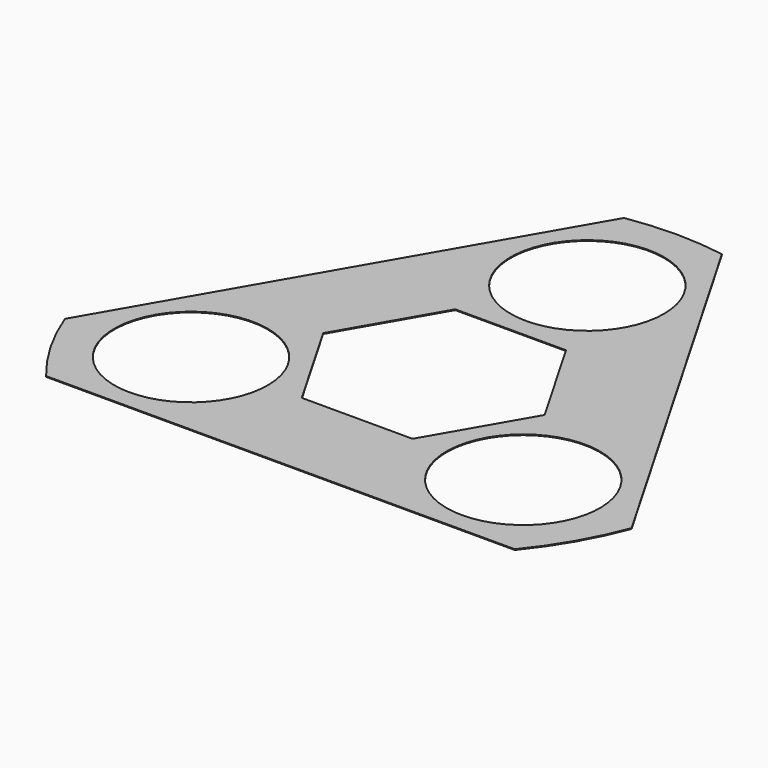
from build123d import *

# Parameters (mm, degrees)
F1_DEPTH = 1


with BuildPart() as f1:
    # F0 (on Top) → F1 (new body)
    with BuildSketch(Plane.XY):
        with BuildLine():
            ThreePointArc((-97.9795897113, 230), (-165.7757573284, 187.132034356), (-216.5063509461, 125))
            Line((-216.5063509461, 125), (-72.1687836487, 125))
            Line((-72.1687836487, 125), (-50, 163.3974596216))
            ThreePointArc((-50, 163.3974596216), (-81.1385502643, 191.5488609093), (-97.9795897113, 230))
        make_face()
        with BuildLine():
            Line((-50, 163.3974596216), (-72.1687836487, 125))
            Line((-72.1687836487, 125), (72.1687836487, 125))
            Line((72.1687836487, 125), (50, 163.3974596216))
            ThreePointArc((50, 163.3974596216), (0, 150), (-50, 163.3974596216))
        make_face()
        with BuildLine():
            Line((50, 163.3974596216), (72.1687836487, 125))
            Line((72.1687836487, 125), (216.5063509461, 125))
            ThreePointArc((216.5063509461, 125), (165.7757573284, 187.132034356), (97.9795897113, 230))
            ThreePointArc((97.9795897113, 230), (81.1385502643, 191.5488609093), (50, 163.3974596216))
        make_face()
        Polygon((216.5063509461, 125), (72.1687836487, 125), (144.3375672974, 0), align=None)
        with BuildLine():
            ThreePointArc((250, 0), (241.4814565723, 64.7047612756), (216.5063509461, 125))
            Line((216.5063509461, 125), (144.3375672974, 0))
            Line((144.3375672974, 0), (166.5063509461, -38.3974596216))
            ThreePointArc((166.5063509461, -38.3974596216), (206.4554547456, -25.5063846995), (248.1756377261, -30.1471862576))
            ThreePointArc((248.1756377261, -30.1471862576), (249.5434926336, -15.1011683071), (250, 0))
        make_face()
        with BuildLine():
            Line((144.3375672974, 0), (72.1687836487, -125))
            Line((72.1687836487, -125), (116.5063509461, -125))
            ThreePointArc((116.5063509461, -125), (129.9038105677, -75), (166.5063509461, -38.3974596216))
            Line((166.5063509461, -38.3974596216), (144.3375672974, 0))
        make_face()
        with BuildLine():
            Line((72.1687836487, -125), (0, -250))
            ThreePointArc((0, -250), (79.1732169499, -237.132034356), (150.1960480148, -199.8528137424))
            ThreePointArc((150.1960480148, -199.8528137424), (125.3169044812, -166.0424762098), (116.5063509461, -125))
            Line((116.5063509461, -125), (72.1687836487, -125))
        make_face()
        Polygon((-72.1687836487, -125), (0, -250), (72.1687836487, -125), align=None)
        with BuildLine():
            ThreePointArc((-150.1960480148, -199.8528137424), (-79.1732169499, -237.132034356), (0, -250))
            Line((0, -250), (-72.1687836487, -125))
            Line((-72.1687836487, -125), (-116.5063509461, -125))
            ThreePointArc((-116.5063509461, -125), (-125.3169044812, -166.0424762098), (-150.1960480148, -199.8528137424))
        make_face()
        with BuildLine():
            Line((-72.1687836487, -125), (-144.3375672974, 0))
            Line((-144.3375672974, 0), (-166.5063509461, -38.3974596216))
            ThreePointArc((-166.5063509461, -38.3974596216), (-129.9038105677, -75), (-116.5063509461, -125))
            Line((-116.5063509461, -125), (-72.1687836487, -125))
        make_face()
        with BuildLine():
            Line((-144.3375672974, 0), (-216.5063509461, 125))
            ThreePointArc((-216.5063509461, 125), (-244.9489742783, 50), (-248.1756377261, -30.1471862576))
            ThreePointArc((-248.1756377261, -30.1471862576), (-206.4554547456, -25.5063846995), (-166.5063509461, -38.3974596216))
            Line((-166.5063509461, -38.3974596216), (-144.3375672974, 0))
        make_face()
        with BuildLine():
            Line((-63.7974888566, 389.4995079051), (-216.5063509461, 125))
            ThreePointArc((-216.5063509461, 125), (-165.7757573284, 187.132034356), (-97.9795897113, 230))
            ThreePointArc((-97.9795897113, 230), (-10.0508962005, 349.4936153005), (100, 250))
            ThreePointArc((100, 250), (99.4936153005, 239.9491037995), (97.9795897113, 230))
            ThreePointArc((97.9795897113, 230), (165.7757573284, 187.132034356), (216.5063509461, 125))
            Line((216.5063509461, 125), (63.7974888566, 389.4995079051))
            ThreePointArc((63.7974888566, 389.4995079051), (0, 394.6897341492), (-63.7974888566, 389.4995079051))
        make_face()
        with BuildLine():
            ThreePointArc((150.1960480148, -199.8528137424), (79.1732169499, -237.132034356), (0, -250))
            Line((0, -250), (305.4177241791, -250))
            ThreePointArc((305.4177241791, -250), (341.8113363861, -197.3448670746), (369.2152130357, -139.4995079052))
            Line((369.2152130357, -139.4995079052), (216.5063509461, 125))
            ThreePointArc((216.5063509461, 125), (241.4814565723, 64.7047612756), (250, 0))
            ThreePointArc((250, 0), (249.5434926336, -15.1011683071), (248.1756377261, -30.1471862576))
            ThreePointArc((248.1756377261, -30.1471862576), (297.6449012104, -66.5488609093), (316.5063509461, -125))
            ThreePointArc((316.5063509461, -125), (257.5488271559, -216.1894464649), (150.1960480148, -199.8528137424))
        make_face()
        with BuildLine():
            Line((-216.5063509461, 125), (-369.2152130357, -139.4995079052))
            ThreePointArc((-369.2152130357, -139.4995079052), (-341.8113363861, -197.3448670746), (-305.4177241791, -250))
            Line((-305.4177241791, -250), (0, -250))
            ThreePointArc((0, -250), (-79.1732169499, -237.132034356), (-150.1960480148, -199.8528137424))
            ThreePointArc((-150.1960480148, -199.8528137424), (-303.1088913246, -175), (-248.1756377261, -30.1471862576))
            ThreePointArc((-248.1756377261, -30.1471862576), (-244.9489742783, 50), (-216.5063509461, 125))
        make_face()
        Polygon((-72.1687836487, 125), (-216.5063509461, 125), (-144.3375672974, 0), align=None)
    extrude(amount=F1_DEPTH)


solid = f1.part
